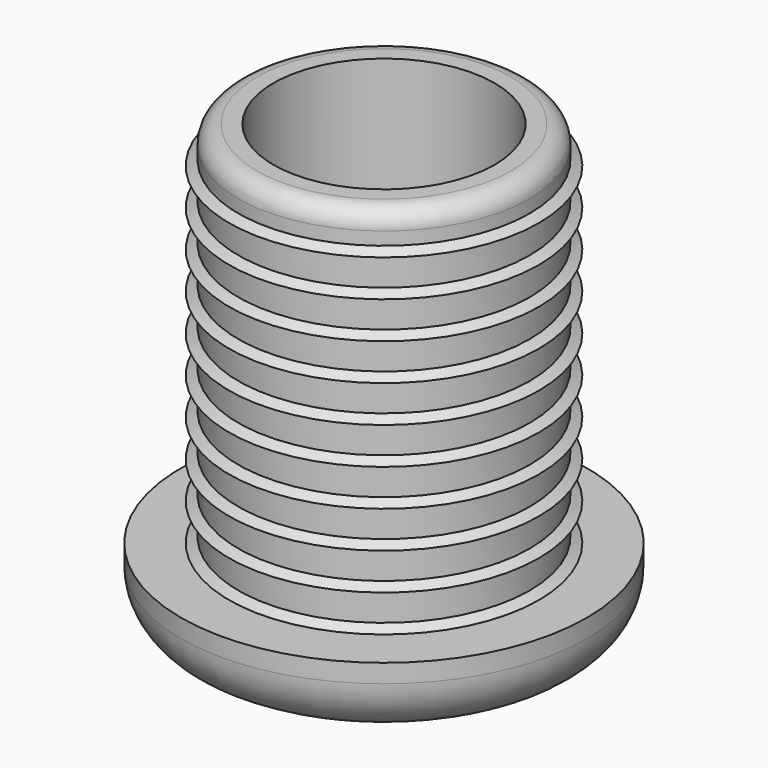
from build123d import *

# Parameters (mm, degrees)
LINEARPATTERN_COUNT = 10
LINEARPATTERN_PITCH = 2
SKETCH_R            = 7.9
PAD_DEPTH           = 20
SKETCH001_R         = 11
PAD001_DEPTH        = 4
FILLET_R            = 3
SKETCH002_R         = 6
POCKET_DEPTH        = 18
FILLET001_R         = 1


with BuildPart() as part:
    # Cone → Cone (revolve)
    with BuildSketch(Plane.XZ):
        Polygon((0, 0), (8.4, 0), (5, 2), (0, 2), align=None)
    cone = revolve(axis=Axis((0, 0, 0), (0, 0, 1)))

    # LinearPattern: Cone ×10
    with Locations(*[(0, 0, i * LINEARPATTERN_PITCH) for i in range(1, LINEARPATTERN_COUNT)]):
        add(cone)

    # Sketch (on Face21 of LinearPattern) → Pad (new body)
    with BuildSketch(Plane(origin=(0, 0, 0), x_dir=(1, 0, 0), z_dir=(0, 0, -1))):
        Circle(SKETCH_R)
    extrude(amount=-PAD_DEPTH)

    # Sketch001 (on Face33 of Pad) → Pad001 (join)
    with BuildSketch(Plane(origin=(0, 0, 0), x_dir=(1, 0, 0), z_dir=(0, 0, -1))):
        Circle(SKETCH001_R)
    extrude(amount=PAD001_DEPTH)

    # Fillet
    fillet_edges = [part.edges().sort_by_distance(p)[0] for p in [
        (-11, 0, -4),
    ]]
    fillet(fillet_edges, radius=FILLET_R)

    # Sketch002 (on Face34 of Fillet) → Pocket (cut)
    with BuildSketch(Plane.XY.offset(20)):
        Circle(SKETCH002_R)
    extrude(amount=-POCKET_DEPTH, mode=Mode.SUBTRACT)

    # Fillet001
    fillet001_edges = [part.edges().sort_by_distance(p)[0] for p in [
        (-7.9, 0, 20),
    ]]
    fillet(fillet001_edges, radius=FILLET001_R)


solid = part.part
